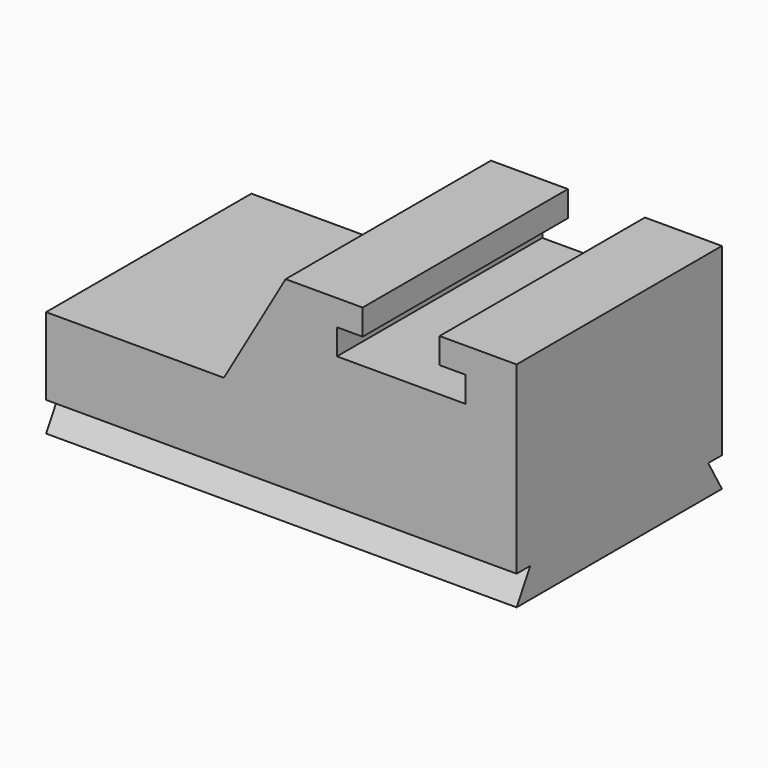
from build123d import *

# Parameters (mm, degrees)
F0_W     = 2794
F0_H     = 1270
F1_DEPTH = 1524
F2_W     = 457.2
F2_H     = 152.4
F3_DEPTH = 1524.001
F5_DEPTH = 1524.001
F7_DEPTH = 2794.001


with BuildPart() as f1:
    # F0 (on Front) → F1 (new body)
    with BuildSketch(Plane.XZ):
        with Locations((-1397, 635)):
            Rectangle(F0_W, F0_H)
        with Locations((-1397, 635)):
            Rectangle(F0_W, F0_H)
    extrude(amount=F1_DEPTH)

    # F2 (on face) → F3 (cut, through all)
    with BuildSketch(Plane.XZ.offset(1524)):
        Polygon((-1066.8, 965.2), (-304.8, 965.2), (-304.8, 1117.6), (-457.2, 1117.6), (-914.4, 1117.6), (-1066.8, 1117.6), align=None)
        with Locations((-685.8, 1193.8)):
            Rectangle(F2_W, F2_H)
    extrude(amount=-F3_DEPTH, mode=Mode.SUBTRACT)

    # F4 (on face) → F5 (cut, through all)
    with BuildSketch(Plane.XZ.offset(1524)):
        Polygon((-1738.217421, 635), (-1371.6, 1270), (-2794, 1270), (-2794, 635), align=None)
    extrude(amount=-F5_DEPTH, mode=Mode.SUBTRACT)

    # F6 (on face) → F7 (cut, through all)
    with BuildSketch(Plane(origin=(-2794, 0, 0), x_dir=(0, -1, 0), z_dir=(-1, 0, 0))):
        Polygon((0, 175.976362), (0, 0), (101.6, 175.976362), align=None)
        Polygon((1422.4, 175.976362), (1524, 0), (1524, 175.976362), align=None)
    extrude(amount=-F7_DEPTH, mode=Mode.SUBTRACT)


solid = f1.part
